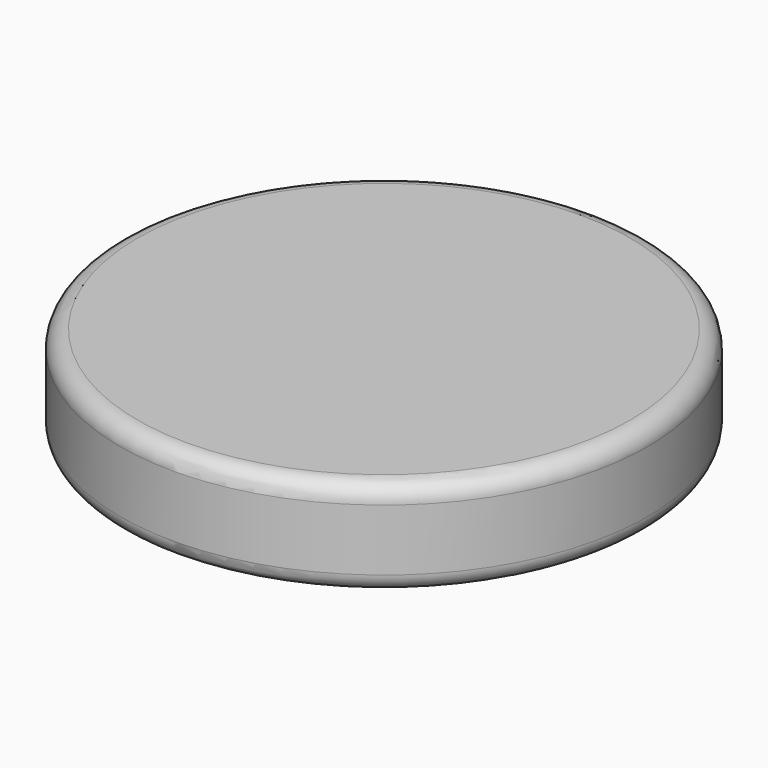
from build123d import *

# Parameters (mm, degrees)
F0_W = 150
F0_H = 55
F2_R = 10


with BuildPart() as f1:
    # F0 (on Front) → F1 (revolve)
    with BuildSketch(Plane.XZ):
        with Locations((-75, 27.5)):
            Rectangle(F0_W, F0_H)
    revolve(axis=Axis((0, 0, 27.5), (0, 0, 1)))

    # F2
    f2_edges = [f1.edges().sort_by_distance(p)[0] for p in [
        (150, 0, 55),
        (150, 0, 0),
    ]]
    fillet(f2_edges, radius=F2_R)


solid = f1.part
